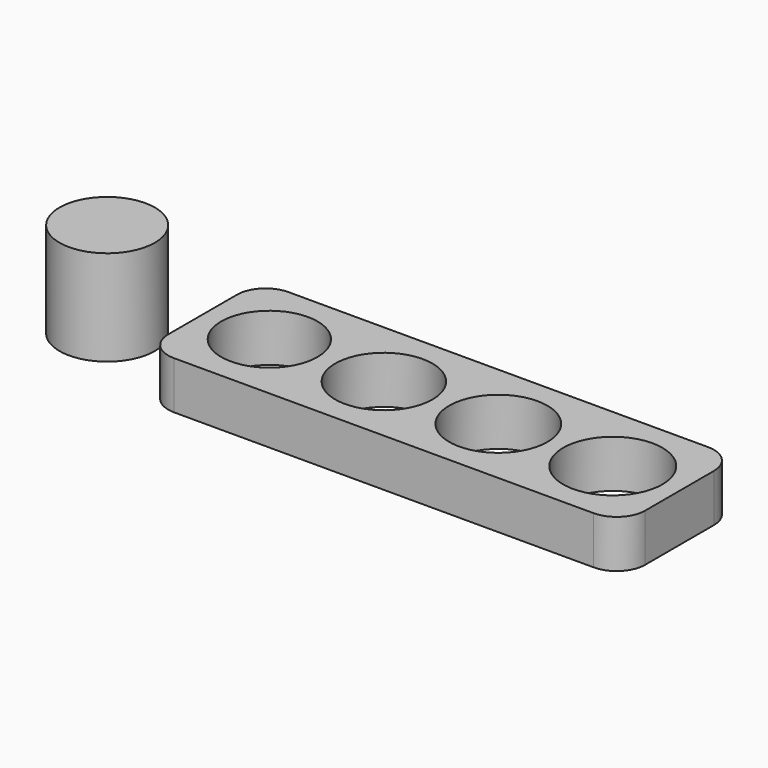
from build123d import *

# Parameters (mm, degrees)
F0_W     = 50
F0_H     = 15
F0_R     = 5.05
F0_R_2   = 5.1
F0_R_3   = 5.15
F0_R_4   = 5.2
F1_DEPTH = 5
F0_R_5   = 5
F2_DEPTH = 10
F3_R     = 3


with BuildPart() as f1:
    # F0 (on Top) → F1 (new body)
    with BuildSketch(Plane.XY):
        with Locations((35, 0)):
            Rectangle(F0_W, F0_H)
        with Locations((17, 0)):
            Circle(F0_R, mode=Mode.SUBTRACT)
        with Locations((29, 0)):
            Circle(F0_R_2, mode=Mode.SUBTRACT)
        with Locations((41, 0)):
            Circle(F0_R_3, mode=Mode.SUBTRACT)
        with Locations((53, 0)):
            Circle(F0_R_4, mode=Mode.SUBTRACT)
    extrude(amount=F1_DEPTH)

    # F3
    f3_edges = [f1.edges().sort_by_distance(p)[0] for p in [
        (10, -7.5, 2.5),
        (60, -7.5, 2.5),
        (60, 7.5, 2.5),
        (10, 7.5, 2.5),
    ]]
    fillet(f3_edges, radius=F3_R)


with BuildPart() as f2:
    # F0 (on Top) → F2 (new body)
    with BuildSketch(Plane.XY):
        Circle(F0_R_5)
    extrude(amount=F2_DEPTH)


solid = Compound([f1.part, f2.part])
